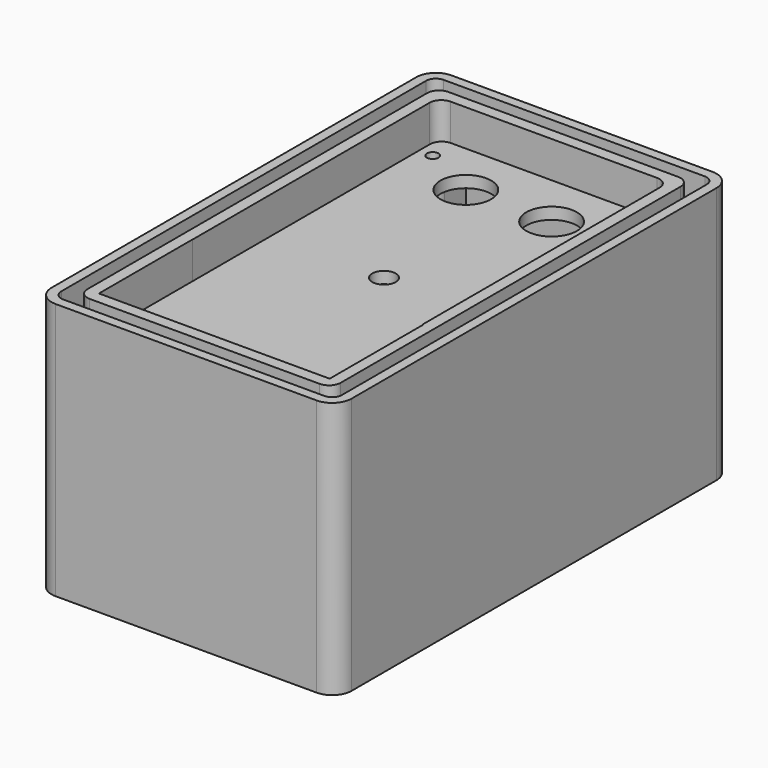
from build123d import *

# Parameters (mm, degrees)
F2_DEPTH  = 66
F3_T      = -2.5
F4_W      = 65
F4_H      = 115
F5_DEPTH  = 60
F6_T      = -3
F7_R      = 3
F9_DEPTH  = 60
F11_DEPTH = 30
F12_W     = 25
F12_H     = 25
F13_DEPTH = 25
F14_W     = 30.3293950856
F14_H     = 30.3293950856
F14_W_2   = 22
F14_H_2   = 22
F15_DEPTH = 1
F16_R     = 1.5
F17_DEPTH = 5
F18_R     = 1
F19_DEPTH = 2
F20_W     = 75.8937858045
F20_H     = 3.0775591731
F21_DEPTH = 7
F23_DEPTH = 45
F24_R     = 1.5
F24_R_2   = 6.5
F24_R_3   = 3
F25_DEPTH = 3
F26_W     = 3
F26_H     = 59.5
F26_H_2   = 3
F26_W_2   = 34.5
F27_DEPTH = 3.5


with BuildPart() as f2:
    # F1 (on offset) → F2 (new body)
    with BuildSketch(Plane.XY.offset(-6)):
        with BuildLine():
            Line((33.5, 63.5), (-33.5, 63.5))
            ThreePointArc((-33.5, 63.5), (-37.0355339059, 62.0355339059), (-38.5, 58.5))
            Line((-38.5, 58.5), (-38.5, -58.5))
            ThreePointArc((-38.5, -58.5), (-37.0355339059, -62.0355339059), (-33.5, -63.5))
            Line((-33.5, -63.5), (33.5, -63.5))
            ThreePointArc((33.5, -63.5), (37.0355339059, -62.0355339059), (38.5, -58.5))
            Line((38.5, -58.5), (38.5, 58.5))
            ThreePointArc((38.5, 58.5), (37.0355339059, 62.0355339059), (33.5, 63.5))
        make_face()
    extrude(amount=F2_DEPTH)

    # F3
    f3_openings = [f2.faces().sort_by_distance(p)[0] for p in [
        (0, 0, 60),
    ]]
    offset(amount=F3_T, openings=f3_openings)


with BuildPart() as f5:
    # F4 (on Top) → F5 (new body)
    with BuildSketch(Plane.XY):
        Rectangle(F4_W, F4_H)
    extrude(amount=F5_DEPTH)

    # F6
    f6_openings = [f5.faces().sort_by_distance(p)[0] for p in [
        (0, 0, 60),
    ]]
    offset(amount=F6_T, openings=f6_openings)

    # F7
    f7_edges = [f5.edges().sort_by_distance(p)[0] for p in [
        (-29.5, 54.5, 31.5),
        (32.5, -57.5, 30),
        (-32.5, -57.5, 30),
        (32.5, 57.5, 30),
        (29.5, -54.5, 31.5),
        (-32.5, 57.5, 30),
        (29.5, 54.5, 31.5),
        (-29.5, -54.5, 31.5),
    ]]
    fillet(f7_edges, radius=F7_R)

    # F8 (on face) → F9 (join)
    with BuildSketch(Plane.YZ.offset(-29.5)):
        Polygon((-37.5, 60), (-29.5, 3), (-26.5, 3), (-34.5, 60), align=None)
    extrude(amount=F9_DEPTH)

    # F10 (on face) → F11 (cut)
    with BuildSketch(Plane(origin=(0, -54.5, 0), x_dir=(-1, 0, 0), z_dir=(0, 1, 0))):
        Polygon((-15, 3), (15, 3), (15, 48), (29.5312516391, 48), (29.5312516391, 69.1723003983), (-29.6642743051, 69.1723003983), (-29.6642743051, 48), (-15, 48), align=None)
    extrude(amount=F11_DEPTH, mode=Mode.SUBTRACT)

    # F12 (on face) → F13 (cut)
    with BuildSketch(Plane.XZ.offset(57.5)):
        with Locations((0, 25)):
            Rectangle(F12_W, F12_H)
    extrude(amount=-F13_DEPTH, mode=Mode.SUBTRACT)

    # F14 (on face) → F15 (join)
    with BuildSketch(Plane.XZ.offset(57.5)):
        with Locations((0.3990717232, 24.6093776077)):
            Rectangle(F14_W, F14_H)
        with Locations((0, 25)):
            Rectangle(F14_W_2, F14_H_2, mode=Mode.SUBTRACT)
    extrude(amount=-F15_DEPTH)

    # F16 (on face) → F17 (cut)
    with BuildSketch(Plane(origin=(0, -25.5751584666, -3.5894959251), x_dir=(-1, 0, 0), z_dir=(0, 0.9902939772, 0.1389886284))):
        with Locations((-17.75, 48.1656454504)):
            Circle(F16_R)
        with Locations((17.75, 48.3054479149)):
            Circle(F16_R)
    extrude(amount=-F17_DEPTH, mode=Mode.SUBTRACT)

    # F18 (on face) → F19 (join)
    with BuildSketch(Plane(origin=(0, -25.5751584666, -3.5894959251), x_dir=(-1, 0, 0), z_dir=(0, 0.9902939772, 0.1389886284))):
        with Locations((-17.2482031414, 16.1695800686)):
            Circle(F18_R)
        with Locations((18.2517968586, 16.1695800686)):
            Circle(F18_R)
    extrude(amount=F19_DEPTH)

    # F20 (on face) → F21 (join)
    with BuildSketch(Plane.YZ.offset(-29.5)):
        with Locations((16.7292747647, 13.5387795866)):
            Rectangle(F20_W, F20_H)
    extrude(amount=F21_DEPTH)

    # F22 (on face) → F23 (join)
    with BuildSketch(Plane.XY.offset(3)):
        with BuildLine():
            Line((-22.5, 54.5), (-29.5, 54.5))
            Line((-29.5, 54.5), (-29.5, 44.5))
            Line((-29.5, 44.5), (-25.5, 44.5))
            ThreePointArc((-25.5, 44.5), (-23.3786796564, 45.3786796564), (-22.5, 47.5))
            Line((-22.5, 47.5), (-22.5, 54.5))
        make_face()
        with BuildLine():
            Line((29.7470435202, 54.5), (22.7470435202, 54.5))
            Line((22.7470435202, 54.5), (22.7470435202, 47.1638529301))
            ThreePointArc((22.7470435202, 47.1638529301), (23.6257231767, 45.0425325865), (25.7470435202, 44.1638529301))
            Line((25.7470435202, 44.1638529301), (29.7470435202, 44.1638529301))
            Line((29.7470435202, 44.1638529301), (29.7470435202, 54.5))
        make_face()
        with BuildLine():
            Line((-29.5, -44.5), (-29.5, -54.5))
            Line((-29.5, -54.5), (-22.3479736596, -54.5))
            Line((-22.3479736596, -54.5), (-22.3479736596, -47.5))
            ThreePointArc((-22.3479736596, -47.5), (-23.2266533161, -45.3786796564), (-25.3479736596, -44.5))
            Line((-25.3479736596, -44.5), (-29.5, -44.5))
        make_face()
        with BuildLine():
            Line((22.6642743051, -54.5), (29.6642743051, -54.5))
            Line((29.6642743051, -54.5), (29.6642743051, -44.5))
            Line((29.6642743051, -44.5), (25.6642743051, -44.5))
            ThreePointArc((25.6642743051, -44.5), (23.5429539615, -45.3786796564), (22.6642743051, -47.5))
            Line((22.6642743051, -47.5), (22.6642743051, -54.5))
        make_face()
    extrude(amount=F23_DEPTH)


with BuildPart() as f25:
    # F24 (on face) → F25 (new body)
    with BuildSketch(Plane.XY.offset(48)):
        with BuildLine():
            Line((26, 54), (-26, 54))
            ThreePointArc((-26, 54), (-28.1213203436, 53.1213203436), (-29, 51))
            Line((-29, 51), (-29, -54))
            Line((-29, -54), (29, -54))
            Line((29, -54), (29, 51))
            ThreePointArc((29, 51), (28.1213203436, 53.1213203436), (26, 54))
        make_face()
        with Locations((-25.5, -47.5)):
            Circle(F24_R, mode=Mode.SUBTRACT)
        with Locations((25.5, -47.5)):
            Circle(F24_R, mode=Mode.SUBTRACT)
        with Locations((-25.5, 47.5)):
            Circle(F24_R, mode=Mode.SUBTRACT)
        with Locations((-11, 40)):
            Circle(F24_R_2, mode=Mode.SUBTRACT)
        Circle(F24_R_3, mode=Mode.SUBTRACT)
        with Locations((11, 40)):
            Circle(F24_R_2, mode=Mode.SUBTRACT)
        with Locations((25.5, 47.5)):
            Circle(F24_R, mode=Mode.SUBTRACT)
    extrude(amount=F25_DEPTH)


with BuildPart() as f27:
    # F26 (on face) → F27 (new body)
    with BuildSketch(Plane.XY.offset(-3.5)):
        with Locations((0, 31.25)):
            Rectangle(F26_W, F26_H)
        Rectangle(F26_W, F26_H_2)
        with Locations((-18.75, 0)):
            Rectangle(F26_W_2, F26_H_2)
        with Locations((18.75, 0)):
            Rectangle(F26_W_2, F26_H_2)
        with Locations((0, -31.25)):
            Rectangle(F26_W, F26_H)
    extrude(amount=F27_DEPTH)


solid = Compound([f2.part, f5.part, f25.part, f27.part])
